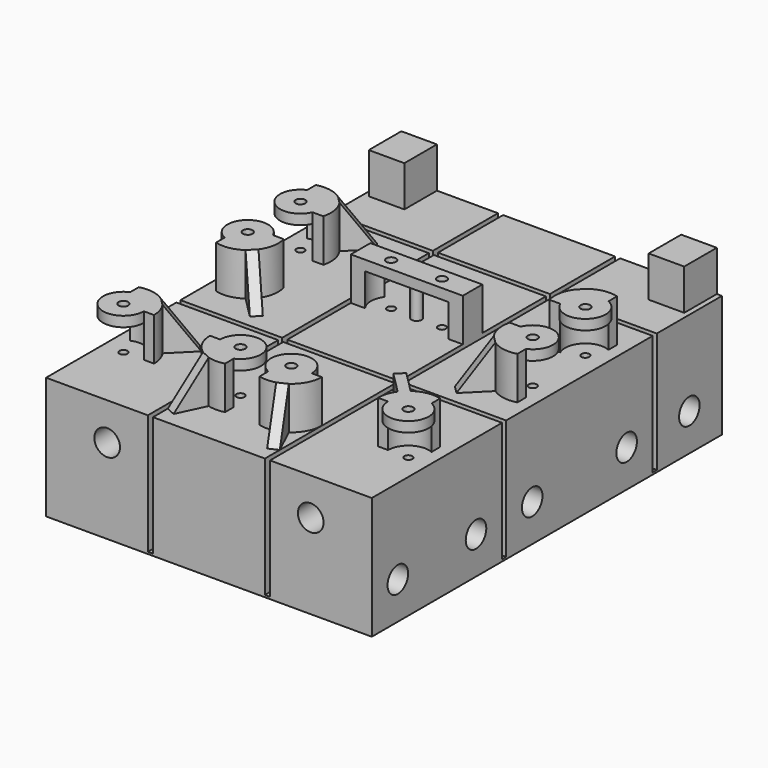
from build123d import *

# Parameters (mm, degrees)
F0_R      = 4.005
F1_DEPTH  = 136.525
F2_W      = 1.5875
F2_H      = 63.6379074089
F2_R      = 4.005
F3_DEPTH  = 101.601
F4_R      = 7.505
F5_DEPTH  = 58.7375
F6_R      = 7.505
F7_DEPTH  = 36.5125
F8_R      = 1.25
F9_DEPTH  = 38.101
F10_W     = 11.0998
F10_H     = 12.7
F11_DEPTH = 12.7
F12_R     = 1.5748
F13_DEPTH = 10.16
F14_W     = 34.925
F14_H     = 7.62
F15_DEPTH = 3.175
F16_R     = 1.5
F17_DEPTH = 3.175
F19_DEPTH = 13.335
F21_DEPTH = 3.175
F23_DEPTH = 3.175
F25_DEPTH = 3.175
F27_DEPTH = 3.175
F29_DEPTH = 3.175
F31_DEPTH = 3.175
F33_DEPTH = 3.4835189581


with BuildPart() as f1:
    # F0 (on Front) → F1 (new body)
    with BuildSketch(Plane.XZ):
        Polygon((-50.8, 38.1), (-50.8, 0), (50.8, 0), (50.8, 38.1), (19.05, 38.1), (19.05, 0.635), (17.4625, 0.635), (17.4625, 38.1), (-17.4625, 38.1), (-17.4625, 0.635), (-19.05, 0.635), (-19.05, 38.1), align=None)
        with Locations((-31.75, 26.475)):
            Circle(F0_R, mode=Mode.SUBTRACT)
        with Locations((31.75, 26.475)):
            Circle(F0_R, mode=Mode.SUBTRACT)
    extrude(amount=F1_DEPTH)

    # F2 (on face) → F3 (cut, through all)
    with BuildSketch(Plane(origin=(-50.8, 0, 0), x_dir=(0, -1, 0), z_dir=(-1, 0, 0))):
        with Locations((26.19375, 32.4539537044)):
            Rectangle(F2_W, F2_H)
        with Locations((84.93125, 32.4539537044)):
            Rectangle(F2_W, F2_H)
        with Locations((12.7, 11.625)):
            Circle(F2_R)
        with Locations((37.1475, 11.625)):
            Circle(F2_R)
        with Locations((73.9775, 11.625)):
            Circle(F2_R)
        with Locations((95.885, 11.625)):
            Circle(F2_R)
        with Locations((126.365, 11.625)):
            Circle(F2_R)
    extrude(amount=-F3_DEPTH, mode=Mode.SUBTRACT)

    # F4 (on face) → F5 (cut, through all)
    with BuildSketch(Plane.XZ.offset(84.1375)):
        with Locations((31.75, 26.475)):
            Circle(F4_R)
        with Locations((-31.75, 26.475)):
            Circle(F4_R)
    extrude(amount=-F5_DEPTH, mode=Mode.SUBTRACT)

    # F6 (on face) → F7 (cut, through all)
    with BuildSketch(Plane.YZ.offset(17.4625)):
        with Locations((-73.9775, 11.625)):
            Circle(F6_R)
        with Locations((-37.1475, 11.625)):
            Circle(F6_R)
    extrude(amount=-F7_DEPTH, mode=Mode.SUBTRACT)

    # F8 (on face) → F9 (cut, through all)
    with BuildSketch(Plane.XY.offset(38.1)):
        with Locations((-44.45, -45.3009)):
            Circle(F8_R)
        with Locations((44.45, -45.3009)):
            Circle(F8_R)
        with Locations((7.9248, -55.5625)):
            Circle(F8_R)
        with Locations((-7.9248, -55.5625)):
            Circle(F8_R)
        with Locations((-44.45, -65.8241)):
            Circle(F8_R)
        with Locations((-44.45, -114.3)):
            Circle(F8_R)
        with Locations((44.45, -65.8241)):
            Circle(F8_R)
        with Locations((44.45, -114.3)):
            Circle(F8_R)
        with Locations((7.9375, -114.3)):
            Circle(F8_R)
        with Locations((-7.9375, -114.3)):
            Circle(F8_R)
    extrude(amount=-F9_DEPTH, mode=Mode.SUBTRACT)

    # F10 (on face) → F11 (join)
    with BuildSketch(Plane.XY.offset(38.1)):
        with Locations((43.6499, -6.35)):
            Rectangle(F10_W, F10_H)
        with Locations((-43.6499, -6.35)):
            Rectangle(F10_W, F10_H)
    extrude(amount=F11_DEPTH)

    # F12 (on face) → F13 (join)
    with BuildSketch(Plane.XY.offset(38.1)):
        with BuildLine():
            ThreePointArc((-46.99, -108.4801288674), (-40.9719617598, -108.9872088315), (-38.1, -114.3))
            Line((-38.1, -114.3), (-34.925, -114.3))
            ThreePointArc((-34.925, -114.3), (-38.6823260754, -106.7197913947), (-46.99, -105.1199114928))
            Line((-46.99, -105.1199114928), (-46.99, -108.4801288674))
        make_face()
        with BuildLine():
            Line((34.925, -114.3), (38.1, -114.3))
            ThreePointArc((38.1, -114.3), (40.9719617598, -108.9872088315), (46.99, -108.4801288674))
            Line((46.99, -108.4801288674), (46.99, -105.1199114928))
            ThreePointArc((46.99, -105.1199114928), (38.6823260754, -106.7197913947), (34.925, -114.3))
        make_face()
        with BuildLine():
            ThreePointArc((-35.2699114928, -47.8409), (-37.7148079092, -38.5657079092), (-46.99, -36.1208114928))
            Line((-46.99, -36.1208114928), (-46.99, -39.4810288674))
            ThreePointArc((-46.99, -39.4810288674), (-39.9598719395, -40.8107719395), (-38.6301288674, -47.8409))
            Line((-38.6301288674, -47.8409), (-35.2699114928, -47.8409))
        make_face()
        with BuildLine():
            ThreePointArc((-38.6301288674, -63.2841), (-39.9598719395, -70.3142280605), (-46.99, -71.6439711326))
            Line((-46.99, -71.6439711326), (-46.99, -75.0041885072))
            ThreePointArc((-46.99, -75.0041885072), (-37.7148079092, -72.5592920908), (-35.2699114928, -63.2841))
            Line((-35.2699114928, -63.2841), (-38.6301288674, -63.2841))
        make_face()
        with BuildLine():
            ThreePointArc((46.99, -71.6439711326), (39.9598719395, -70.3142280605), (38.6301288674, -63.2841))
            Line((38.6301288674, -63.2841), (35.2699114928, -63.2841))
            ThreePointArc((35.2699114928, -63.2841), (37.7148079092, -72.5592920908), (46.99, -75.0041885072))
            Line((46.99, -75.0041885072), (46.99, -71.6439711326))
        make_face()
        with BuildLine():
            ThreePointArc((38.6301288674, -47.8409), (39.9598719395, -40.8107719395), (46.99, -39.4810288674))
            Line((46.99, -39.4810288674), (46.99, -36.1208114928))
            ThreePointArc((46.99, -36.1208114928), (37.7148079092, -38.5657079092), (35.2699114928, -47.8409))
            Line((35.2699114928, -47.8409), (38.6301288674, -47.8409))
        make_face()
        with BuildLine():
            ThreePointArc((-5.3975, -120.1198711326), (-11.4155382402, -119.6127911685), (-14.2875, -114.3))
            Line((-14.2875, -114.3), (-17.4625, -114.3))
            ThreePointArc((-17.4625, -114.3), (-13.7051739246, -121.8802086053), (-5.3975, -123.4800885072))
            Line((-5.3975, -123.4800885072), (-5.3975, -120.1198711326))
        make_face()
        with BuildLine():
            ThreePointArc((14.2875, -114.3), (11.4155382402, -119.6127911685), (5.3975, -120.1198711326))
            Line((5.3975, -120.1198711326), (5.3975, -123.4800885072))
            ThreePointArc((5.3975, -123.4800885072), (13.7051739246, -121.8802086053), (17.4625, -114.3))
            Line((17.4625, -114.3), (14.2875, -114.3))
        make_face()
        with BuildLine():
            ThreePointArc((-13.0048, -59.3725), (-14.2748, -55.5625), (-13.0048, -51.7525))
            Line((-13.0048, -51.7525), (-17.4625, -51.7525))
            Line((-17.4625, -51.7525), (-17.4625, -59.3725))
            Line((-17.4625, -59.3725), (-13.0048, -59.3725))
        make_face()
        with BuildLine():
            ThreePointArc((13.0048, -51.7525), (14.2748, -55.5625), (13.0048, -59.3725))
            Line((13.0048, -59.3725), (17.4625, -59.3725))
            Line((17.4625, -59.3725), (17.4625, -51.7525))
            Line((17.4625, -51.7525), (13.0048, -51.7525))
        make_face()
        with Locations((0, -55.5625)):
            Circle(F12_R)
    extrude(amount=F13_DEPTH)

    # F14 (on face) → F15 (join)
    with BuildSketch(Plane.XY.offset(48.26)):
        with BuildLine():
            ThreePointArc((38.1, -114.3), (47.9280382402, -119.6127911685), (46.99, -108.4801288674))
            Line((46.99, -108.4801288674), (46.99, -105.1199114928))
            ThreePointArc((46.99, -105.1199114928), (38.6823260754, -106.7197913947), (34.925, -114.3))
            Line((34.925, -114.3), (38.1, -114.3))
        make_face()
        with BuildLine():
            ThreePointArc((5.3975, -123.4800885072), (13.7051739246, -121.8802086053), (17.4625, -114.3))
            Line((17.4625, -114.3), (14.2875, -114.3))
            ThreePointArc((14.2875, -114.3), (4.4594617598, -108.9872088315), (5.3975, -120.1198711326))
            Line((5.3975, -120.1198711326), (5.3975, -123.4800885072))
        make_face()
        with BuildLine():
            ThreePointArc((-17.4625, -114.3), (-13.7051739246, -121.8802086053), (-5.3975, -123.4800885072))
            Line((-5.3975, -123.4800885072), (-5.3975, -120.1198711326))
            ThreePointArc((-5.3975, -120.1198711326), (-4.4594617598, -108.9872088315), (-14.2875, -114.3))
            Line((-14.2875, -114.3), (-17.4625, -114.3))
        make_face()
        with BuildLine():
            Line((-38.1, -114.3), (-34.925, -114.3))
            ThreePointArc((-34.925, -114.3), (-38.6823260754, -106.7197913947), (-46.99, -105.1199114928))
            Line((-46.99, -105.1199114928), (-46.99, -108.4801288674))
            ThreePointArc((-46.99, -108.4801288674), (-47.9280382402, -119.6127911685), (-38.1, -114.3))
        make_face()
        with BuildLine():
            Line((-38.6301288674, -47.8409), (-35.2699114928, -47.8409))
            ThreePointArc((-35.2699114928, -47.8409), (-37.7148079092, -38.5657079092), (-46.99, -36.1208114928))
            Line((-46.99, -36.1208114928), (-46.99, -39.4810288674))
            ThreePointArc((-46.99, -39.4810288674), (-48.9401280605, -49.7910280605), (-38.6301288674, -47.8409))
        make_face()
        with BuildLine():
            Line((-46.99, -71.6439711326), (-46.99, -75.0041885072))
            ThreePointArc((-46.99, -75.0041885072), (-37.7148079092, -72.5592920908), (-35.2699114928, -63.2841))
            Line((-35.2699114928, -63.2841), (-38.6301288674, -63.2841))
            ThreePointArc((-38.6301288674, -63.2841), (-48.9401280605, -61.3339719395), (-46.99, -71.6439711326))
        make_face()
        with Locations((0, -55.5625)):
            Rectangle(F14_W, F14_H)
        with BuildLine():
            ThreePointArc((38.6301288674, -47.8409), (48.9401280605, -49.7910280605), (46.99, -39.4810288674))
            Line((46.99, -39.4810288674), (46.99, -36.1208114928))
            ThreePointArc((46.99, -36.1208114928), (37.7148079092, -38.5657079092), (35.2699114928, -47.8409))
            Line((35.2699114928, -47.8409), (38.6301288674, -47.8409))
        make_face()
        with BuildLine():
            ThreePointArc((35.2699114928, -63.2841), (37.7148079092, -72.5592920908), (46.99, -75.0041885072))
            Line((46.99, -75.0041885072), (46.99, -71.6439711326))
            ThreePointArc((46.99, -71.6439711326), (48.9401280605, -61.3339719395), (38.6301288674, -63.2841))
            Line((38.6301288674, -63.2841), (35.2699114928, -63.2841))
        make_face()
    extrude(amount=F15_DEPTH)

    # F16 (on face) → F17 (cut, through all)
    with BuildSketch(Plane.XY.offset(51.435)):
        with Locations((44.45, -114.3)):
            Circle(F16_R)
        with Locations((44.45, -45.3009)):
            Circle(F16_R)
        with Locations((44.45, -65.8241)):
            Circle(F16_R)
        with Locations((7.9248, -55.5625)):
            Circle(F16_R)
        with Locations((-7.9248, -55.5625)):
            Circle(F16_R)
        with Locations((-44.45, -45.3009)):
            Circle(F16_R)
        with Locations((-44.45, -65.8241)):
            Circle(F16_R)
        with Locations((-44.45, -114.3)):
            Circle(F16_R)
        with Locations((-7.9375, -114.3)):
            Circle(F16_R)
        with Locations((7.9375, -114.3)):
            Circle(F16_R)
    extrude(amount=-F17_DEPTH, mode=Mode.SUBTRACT)

    # F18 (on face) → F19 (join)
    with BuildSketch(Plane.XY.offset(38.1)):
        Polygon((38.9315430545, -37.5373790243), (32.1963509637, -30.8021869335), (31.0738189486, -31.9247189486), (37.8090110394, -38.6599110394), align=None)
        Polygon((37.8090110394, -38.6599110394), (31.0738189486, -31.9247189486), (29.9512869335, -33.0472509637), (36.6864790243, -39.7824430545), align=None)
        Polygon((32.3247904454, -80.4125294322), (39.0599825363, -73.6773373414), (36.5967626586, -71.2141174637), (29.8615705678, -77.9493095546), align=None)
        Polygon((-36.6864790243, -71.3425569455), (-38.9315430545, -73.5876209757), (-32.1963509637, -80.3228130665), (-29.9512869335, -78.0777490363), align=None)
        Polygon((-32.1963509637, -30.8021869335), (-38.9315430545, -37.5373790243), (-36.6864790243, -39.7824430545), (-29.9512869335, -33.0472509637), align=None)
        Polygon((-32.1963509637, -99.8012869335), (-38.9315430545, -106.5364790243), (-36.6864790243, -108.7815430545), (-29.9512869335, -102.0463509637), align=None)
        Polygon((-17.4625, -130.7206872661), (-14.5924954447, -132.0785159932), (-10.5190092632, -123.4685023272), (-13.3890138185, -122.1106736001), align=None)
        Polygon((17.4625, -130.7206872661), (13.3890138185, -122.1106736001), (10.5190092632, -123.4685023272), (14.5924954447, -132.0785159932), align=None)
        Polygon((36.6864790243, -108.7815430545), (38.9315430545, -106.5364790243), (32.1963509637, -99.8012869335), (29.9512869335, -102.0463509637), align=None)
    extrude(amount=F19_DEPTH)

    # F20 (on face) → F21 (cut, through all)
    with BuildSketch(Plane(origin=(36.0475320151, -36.0475320151, 0), x_dir=(0.7071067812, 0.7071067812, 0), z_dir=(0.7071067812, -0.7071067812, 0))):
        Polygon((-93.3364248577, 38.1), (-93.3364248577, 51.435), (-102.8614248577, 51.435), align=None)
    extrude(amount=-F21_DEPTH, mode=Mode.SUBTRACT)

    # F22 (on face) → F23 (cut, through all)
    with BuildSketch(Plane(origin=(39.135402717, -18.5153622698, 0), x_dir=(0.4276625912, 0.9039384426, 0), z_dir=(0.9039384426, -0.4276625912, 0))):
        Polygon((-116.1065124659, 51.435), (-125.6315124659, 51.435), (-125.6315124659, 38.1), align=None)
    extrude(amount=-F23_DEPTH, mode=Mode.SUBTRACT)

    # F24 (on face) → F25 (cut, through all)
    with BuildSketch(Plane(origin=(-36.2653981616, -17.1575335426, 0), x_dir=(-0.4276625912, 0.9039384426, 0), z_dir=(0.9039384426, 0.4276625912, 0))):
        Polygon((-125.6315124659, 38.1), (-116.1065124659, 51.435), (-125.6315124659, 51.435), align=None)
    extrude(amount=-F25_DEPTH, mode=Mode.SUBTRACT)

    # F26 (on face) → F27 (cut, through all)
    with BuildSketch(Plane(origin=(-54.0145179849, -54.0145179849, 0), x_dir=(-0.7071067812, 0.7071067812, 0), z_dir=(0.7071067812, 0.7071067812, 0))):
        Polygon((-34.0305477074, 38.1), (-24.5055477074, 51.435), (-34.0305477074, 51.435), align=None)
    extrude(amount=-F27_DEPTH, mode=Mode.SUBTRACT)

    # F28 (on face) → F29 (cut, through all)
    with BuildSketch(Plane(origin=(1.5479820151, -1.5479820151, 0), x_dir=(0.7071067812, 0.7071067812, 0), z_dir=(0.7071067812, -0.7071067812, 0))):
        Polygon((-44.5466933519, 38.1), (-44.5466933519, 51.435), (-54.0716933519, 51.435), align=None)
    extrude(amount=-F29_DEPTH, mode=Mode.SUBTRACT)

    # F30 (on face) → F31 (cut, through all)
    with BuildSketch(Plane(origin=(0.6970820151, 0.6970820151, 0), x_dir=(-0.7071067812, 0.7071067812, 0), z_dir=(0.7071067812, 0.7071067812, 0))):
        Polygon((-44.5466933519, 38.1), (-44.5466933519, 51.435), (-54.0716933519, 51.435), align=None)
    extrude(amount=-F31_DEPTH, mode=Mode.SUBTRACT)

    # F32 (on face) → F33 (cut, through all)
    with BuildSketch(Plane(origin=(56.3686599388, -56.3686599388, 0), x_dir=(0.7071067812, 0.7071067812, 0), z_dir=(0.7071067812, -0.7071067812, 0))):
        Polygon((-34.0031663295, 38.1), (-24.4781663295, 51.435), (-34.0031663295, 51.435), align=None)
    extrude(amount=-F33_DEPTH, mode=Mode.SUBTRACT)


solid = f1.part
